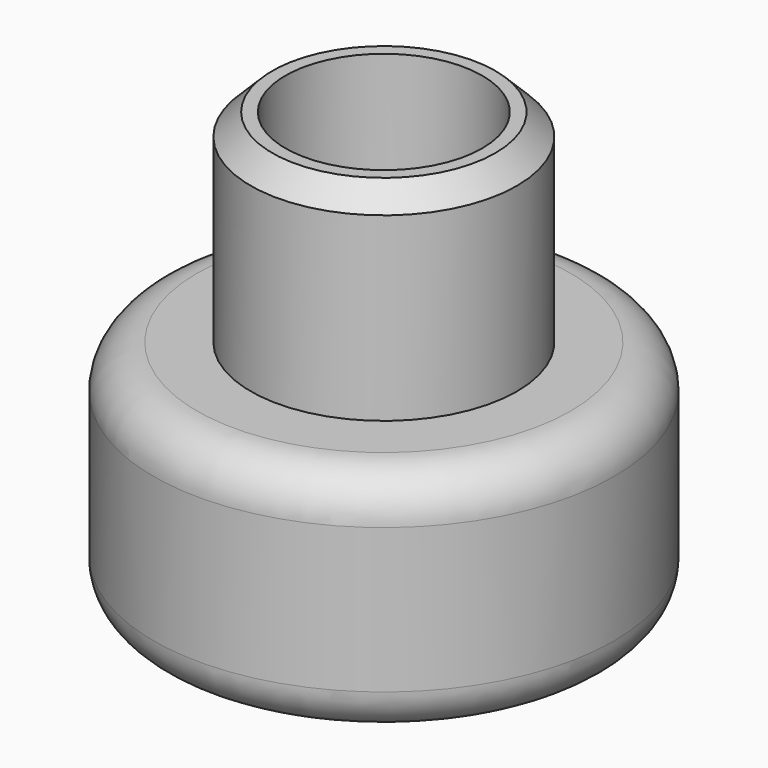
from build123d import *

# Parameters (mm, degrees)
F2_R    = 1.5
F3_SIZE = 0.75
F4_R    = 2


with BuildPart() as f1:
    # F0 (on Front) → F1 (revolve)
    with BuildSketch(Plane.XZ):
        Polygon((3.4, 8.050387), (3.4, 8), (4.6, 8), (4.6, 15), (3.4, 15), align=None)
        Polygon((3.4, 6.550387), (5.95, 4.000387), (5.95, 8), (4.6, 8), (3.4, 8), align=None)
        Polygon((5.95, 4.000387), (5.95, 0), (7.95, 0), (7.95, 8), (5.95, 8), align=None)
    revolve(axis=Axis((0, 0, 34.607098), (0, 0, 1)))

    # F2
    f2_edges = [f1.edges().sort_by_distance(p)[0] for p in [
        (-7.95, 0, 8),
        (-7.95, 0, 0),
    ]]
    fillet(f2_edges, radius=F2_R)

    # F3
    f3_edges = [f1.edges().sort_by_distance(p)[0] for p in [
        (-4.6, 0, 15),
    ]]
    chamfer(f3_edges, length=F3_SIZE)

    # F4
    f4_edges = [f1.edges().sort_by_distance(p)[0] for p in [
        (-3.4, 0, 6.550387),
        (-5.95, 0, 4.000387),
    ]]
    fillet(f4_edges, radius=F4_R)


solid = f1.part
